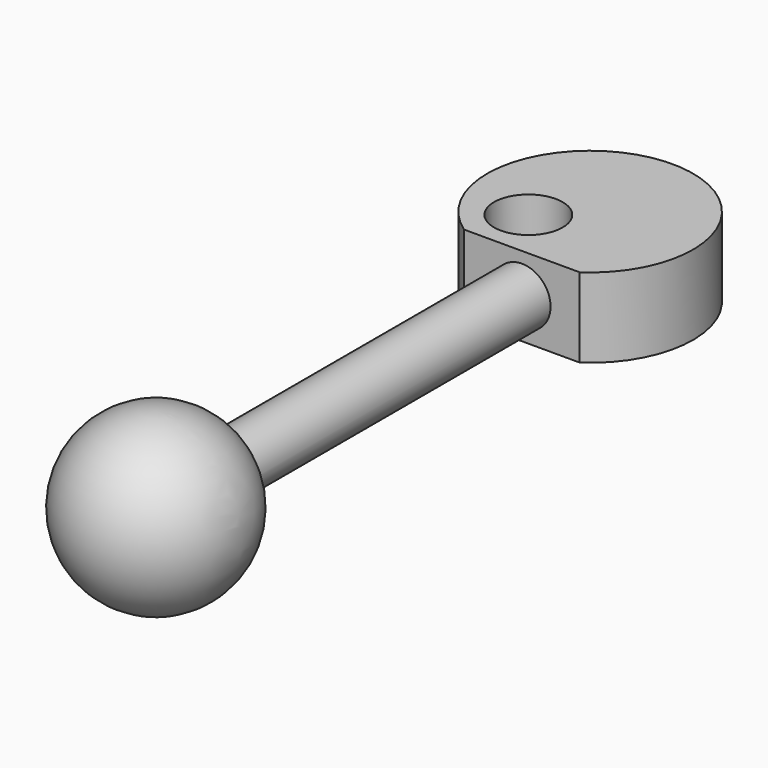
from build123d import *

# Parameters (mm, degrees)
F1_DEPTH = 6.95
F2_R     = 2.5
F3_DEPTH = 40
F6_R     = 3
F7_DEPTH = 10


with BuildPart() as f1:
    # F0 (on Top) → F1 (new body)
    with BuildSketch(Plane.XY):
        with BuildLine():
            Line((-5.050165, -7.449553), (5.050165, -7.449553))
            ThreePointArc((5.050165, -7.449553), (0, 9), (-5.050165, -7.449553))
        make_face()
    extrude(amount=F1_DEPTH)

    # F2 (on face) → F3 (join)
    with BuildSketch(Plane.XZ.offset(7.449553)):
        with Locations((0, 3.475)):
            Circle(F2_R)
    extrude(amount=F3_DEPTH)

    # F4 (on face) → F5 (revolve)
    with BuildSketch(Plane.XZ.offset(47.449553)):
        with BuildLine():
            Line((0, 0.975), (0, -4.025))
            ThreePointArc((0, -4.025), (7.5, 3.475), (0, 10.975))
            Line((0, 10.975), (0, 5.975))
            ThreePointArc((0, 5.975), (1.767767, 5.242767), (2.5, 3.475))
            ThreePointArc((2.5, 3.475), (1.767767, 1.707233), (0, 0.975))
        make_face()
    revolve(axis=Axis((0, -47.449553, 3.475), (0, 0, -1)))

    # F6 (on face) → F7 (cut)
    with BuildSketch(Plane.XY.offset(6.95)):
        with Locations((-3, -3)):
            Circle(F6_R)
    extrude(amount=-F7_DEPTH, mode=Mode.SUBTRACT)


solid = f1.part
